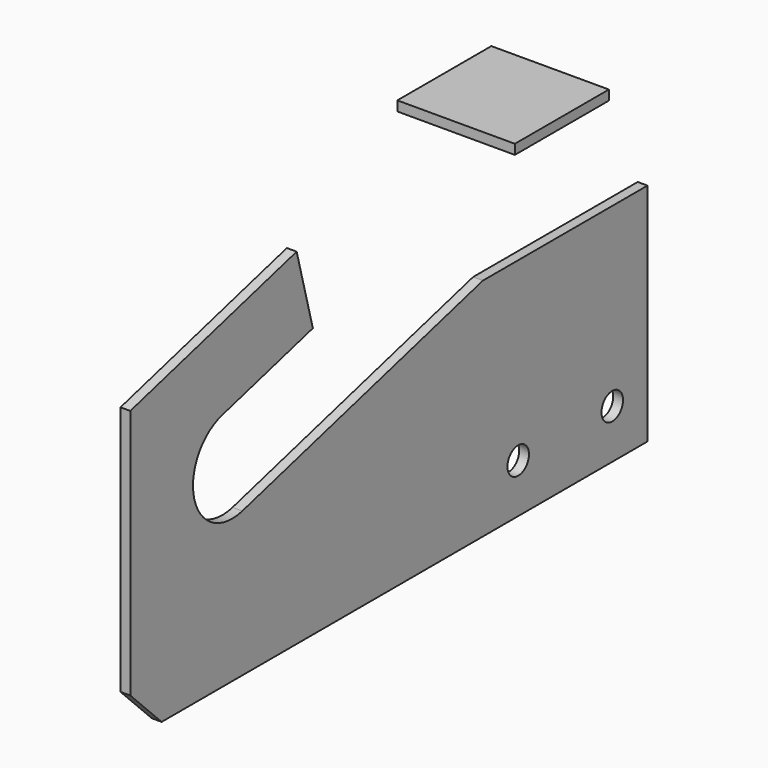
from build123d import *

# Parameters (mm, degrees)
F0_R     = 8.73125
F1_DEPTH = 6.35
F2_W     = 76.2
F2_H     = 76.2
F3_DEPTH = 6.35


with BuildPart() as f1:
    # F0 (on Right) → F1 (new body)
    with BuildSketch(Plane.YZ):
        with BuildLine():
            Line((133.35, 0), (0, 0))
            Line((0, 0), (-194.982495, -52.245402))
            ThreePointArc((-194.982495, -52.245402), (-233.868145, -29.794762), (-211.417505, 9.090888))
            Line((-211.417505, 9.090888), (-137.813957, 28.812899))
            Line((-137.813957, 28.812899), (-150.961964, 77.881931))
            Line((-150.961964, 77.881931), (-285.75, 41.765586))
            Line((-285.75, 41.765586), (-285.75, -120.65))
            Line((-285.75, -120.65), (-260.35, -146.05))
            Line((-260.35, -146.05), (0, -146.05))
            Line((0, -146.05), (133.35, -146.05))
            Line((133.35, -146.05), (133.35, 0))
        make_face()
        with Locations((28.575, -114.3)):
            Circle(F0_R, mode=Mode.SUBTRACT)
        with Locations((104.775, -114.3)):
            Circle(F0_R, mode=Mode.SUBTRACT)
    extrude(amount=F1_DEPTH)


with BuildPart() as f3:
    # F2 (on Top) → F3 (new body)
    with BuildSketch(Plane.XY):
        with Locations((-105.179261, 155.763474)):
            Rectangle(F2_W, F2_H)
    extrude(amount=F3_DEPTH)


solid = Compound([f1.part, f3.part])
